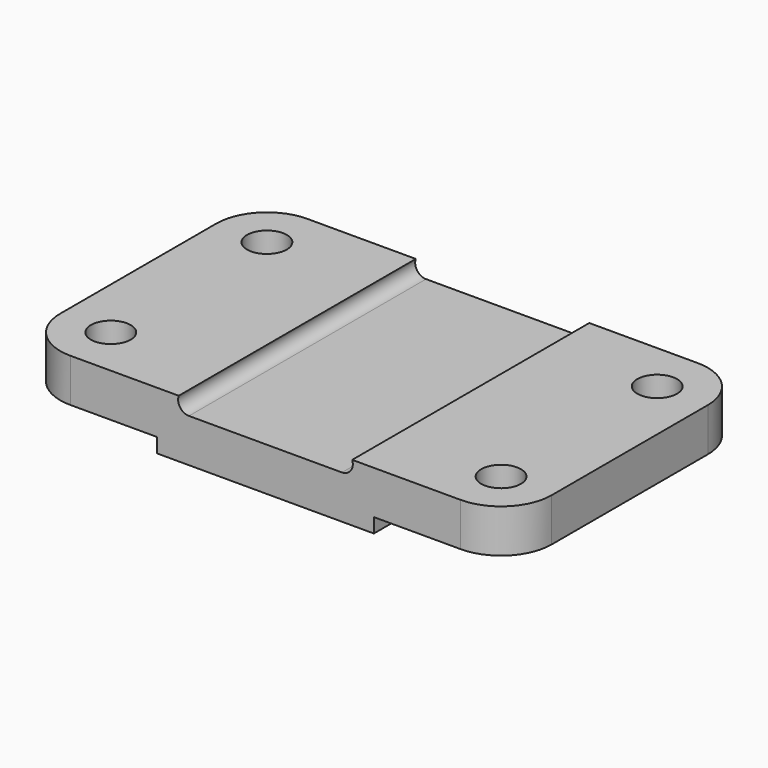
from build123d import *

# Parameters (mm, degrees)
F0_R     = 5.5
F1_DEPTH = 16
F2_W     = 38
F2_H     = 4
F3_DEPTH = 82.001


with BuildPart() as f1:
    # F0 (on Top) → F1 (new body)
    with BuildSketch(Plane.XY):
        with BuildLine():
            Line((108, 0), (0, 0))
            ThreePointArc((0, 0), (-9.899495, -4.100505), (-14, -14))
            Line((-14, -14), (-14, -68))
            ThreePointArc((-14, -68), (-9.899495, -77.899495), (0, -82))
            Line((0, -82), (108, -82))
            ThreePointArc((108, -82), (117.899495, -77.899495), (122, -68))
            Line((122, -68), (122, -14))
            ThreePointArc((122, -14), (117.899495, -4.100505), (108, 0))
        make_face()
        with Locations((0, -68)):
            Circle(F0_R, mode=Mode.SUBTRACT)
        with Locations((108, -68)):
            Circle(F0_R, mode=Mode.SUBTRACT)
        with Locations((0, -14)):
            Circle(F0_R, mode=Mode.SUBTRACT)
        with Locations((108, -14)):
            Circle(F0_R, mode=Mode.SUBTRACT)
    extrude(amount=-F1_DEPTH)

    # F2 (on Front) → F3 (cut, through all)
    with BuildSketch(Plane.XZ):
        with BuildLine():
            ThreePointArc((30, 0), (30.378937, -2.732051), (32.828427, -4))
            Line((32.828427, -4), (75.171573, -4))
            ThreePointArc((75.171573, -4), (77.621063, -2.732051), (78, 0))
            Line((78, 0), (30, 0))
        make_face()
        with Locations((5, -14)):
            Rectangle(F2_W, F2_H)
        with Locations((103, -14)):
            Rectangle(F2_W, F2_H)
    extrude(amount=F3_DEPTH, mode=Mode.SUBTRACT)


solid = f1.part
